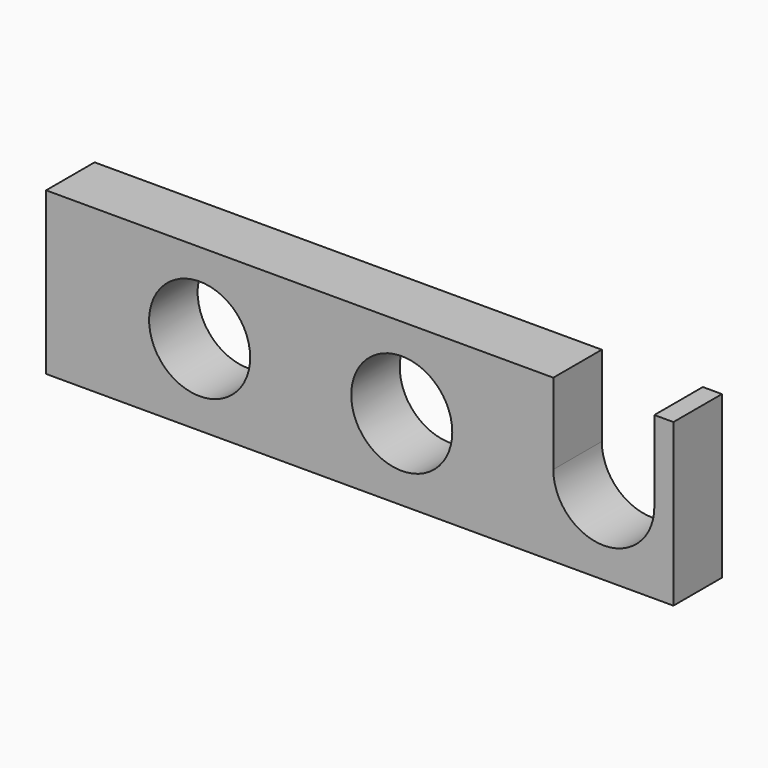
from build123d import *

# Parameters (mm, degrees)
F0_R     = 15.875
F1_DEPTH = 19.05


with BuildPart() as f1:
    # F0 (on Front) → F1 (new body)
    with BuildSketch(Plane.XZ):
        with BuildLine():
            Line((-114.3, -25.4), (82.832746, -25.4))
            Line((82.832746, -25.4), (82.832746, 25.4))
            Line((82.832746, 25.4), (76.835, 25.4))
            Line((76.835, 25.4), (76.835, 0))
            ThreePointArc((76.835, 0), (60.96, -15.875), (45.085, 0))
            Line((45.085, 0), (45.085, 25.4))
            Line((45.085, 25.4), (-114.3, 25.4))
            Line((-114.3, 25.4), (-114.3, -25.4))
        make_face()
        with Locations((-66.04, 0)):
            Circle(F0_R, mode=Mode.SUBTRACT)
        with Locations((-2.54, 0)):
            Circle(F0_R, mode=Mode.SUBTRACT)
    extrude(amount=F1_DEPTH)


solid = f1.part
